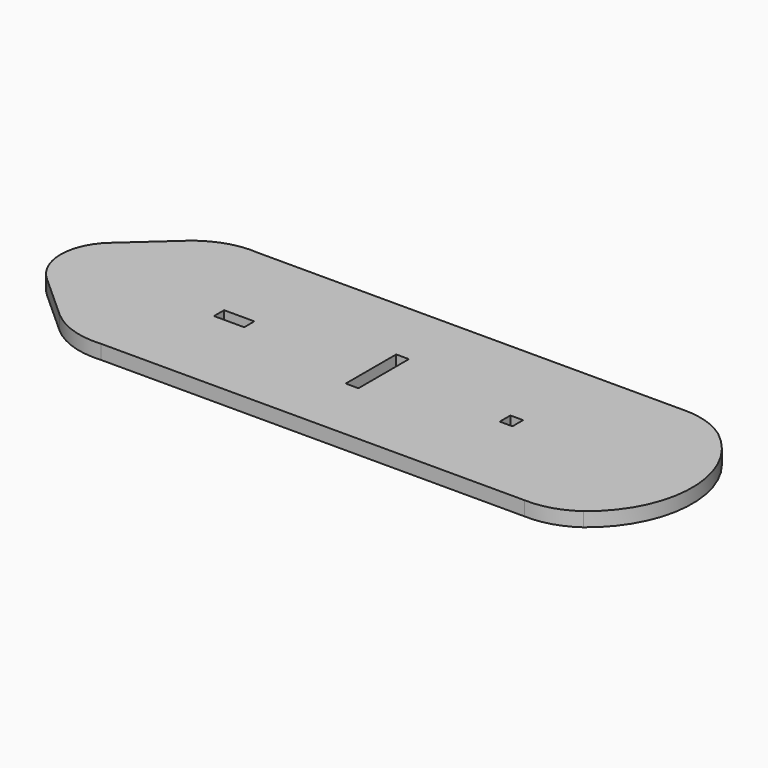
from build123d import *

# Parameters (mm, degrees)
F0_W     = 10
F0_H     = 4.2
F0_W_2   = 4.2
F0_H_2   = 20.833438
F0_H_3   = 4.41329
F1_DEPTH = 4.7


with BuildPart() as f1:
    # F0 (on Top) → F1 (new body)
    with BuildSketch(Plane.XY):
        with BuildLine():
            Line((64.787495, 112.2032), (-75.096362, 112.2032))
            ThreePointArc((-75.096362, 112.2032), (-84.949379, 111.058666), (-93.574782, 106.160266))
            Line((-93.574782, 106.160266), (-108.660405, 92.569106))
            ThreePointArc((-108.660405, 92.569106), (-114.386417, 79.703201), (-108.660405, 66.837296))
            Line((-108.660405, 66.837296), (-93.574782, 53.246136))
            ThreePointArc((-93.574782, 53.246136), (-84.949379, 48.347736), (-75.096362, 47.203202))
            Line((-75.096362, 47.203202), (64.787495, 47.203202))
            ThreePointArc((64.787495, 47.203202), (73.043078, 48.241363), (80.503669, 51.925385))
            ThreePointArc((80.503669, 51.925385), (94.210645, 79.703201), (80.503669, 107.481017))
            ThreePointArc((80.503669, 107.481017), (73.043078, 111.165039), (64.787495, 112.2032))
        make_face()
        with Locations((-57.009111, 79.596556)):
            Rectangle(F0_W, F0_H, mode=Mode.SUBTRACT)
        with Locations((-9.806853, 79.703201)):
            Rectangle(F0_W_2, F0_H_2, mode=Mode.SUBTRACT)
        with Locations((34.495406, 79.703201)):
            Rectangle(F0_W_2, F0_H_3, mode=Mode.SUBTRACT)
    extrude(amount=F1_DEPTH)


solid = f1.part
